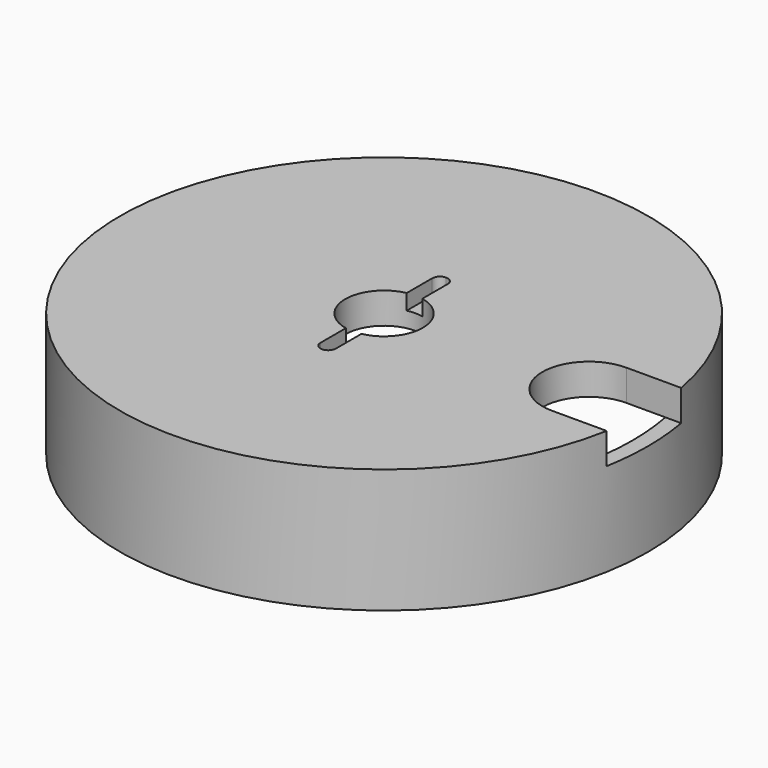
from build123d import *

# Parameters (mm, degrees)
F0_R      = 53.975
F1_DEPTH  = 25.4
F2_R      = 50.8
F3_DEPTH  = 19.05
F4_R      = 9.525
F5_DEPTH  = 6.35
F6_W      = 17.119241
F6_H      = 19.05
F7_DEPTH  = 6.35
F8_R      = 7.9375
F9_DEPTH  = 6.35
F11_DEPTH = 3.175


with BuildPart() as f1:
    # F0 (on Top) → F1 (new body)
    with BuildSketch(Plane.XY):
        Circle(F0_R)
    extrude(amount=F1_DEPTH)

    # F2 (on face) → F3 (cut)
    with BuildSketch(Plane(origin=(0, 0, 0), x_dir=(1, 0, 0), z_dir=(0, 0, -1))):
        Circle(F2_R)
    extrude(amount=-F3_DEPTH, mode=Mode.SUBTRACT)

    # F4 (on face) → F5 (cut, through all)
    with BuildSketch(Plane.XY.offset(25.4)):
        with Locations((41.91, 0)):
            Circle(F4_R)
    extrude(amount=-F5_DEPTH, mode=Mode.SUBTRACT)

    # F6 (on face) → F7 (cut, through all)
    with BuildSketch(Plane.XY.offset(25.4)):
        with Locations((50.46962, 0)):
            Rectangle(F6_W, F6_H)
    extrude(amount=-F7_DEPTH, mode=Mode.SUBTRACT)

    # F8 (on face) → F9 (cut, through all)
    with BuildSketch(Plane.XY.offset(25.4)):
        Circle(F8_R)
    extrude(amount=-F9_DEPTH, mode=Mode.SUBTRACT)

    # F10 (on face) → F11 (cut)
    with BuildSketch(Plane.XY.offset(25.4)):
        with BuildLine():
            ThreePointArc((0, -15.875), (1.122532, -15.410032), (1.5875, -14.2875))
            Line((1.5875, -14.2875), (1.5875, 14.2875))
            ThreePointArc((1.5875, 14.2875), (1.122532, 15.410032), (0, 15.875))
            ThreePointArc((0, 15.875), (-1.122532, 15.410032), (-1.5875, 14.2875))
            Line((-1.5875, 14.2875), (-1.5875, -14.2875))
            ThreePointArc((-1.5875, -14.2875), (-1.122532, -15.410032), (0, -15.875))
        make_face()
    extrude(amount=-F11_DEPTH, mode=Mode.SUBTRACT)


solid = f1.part
